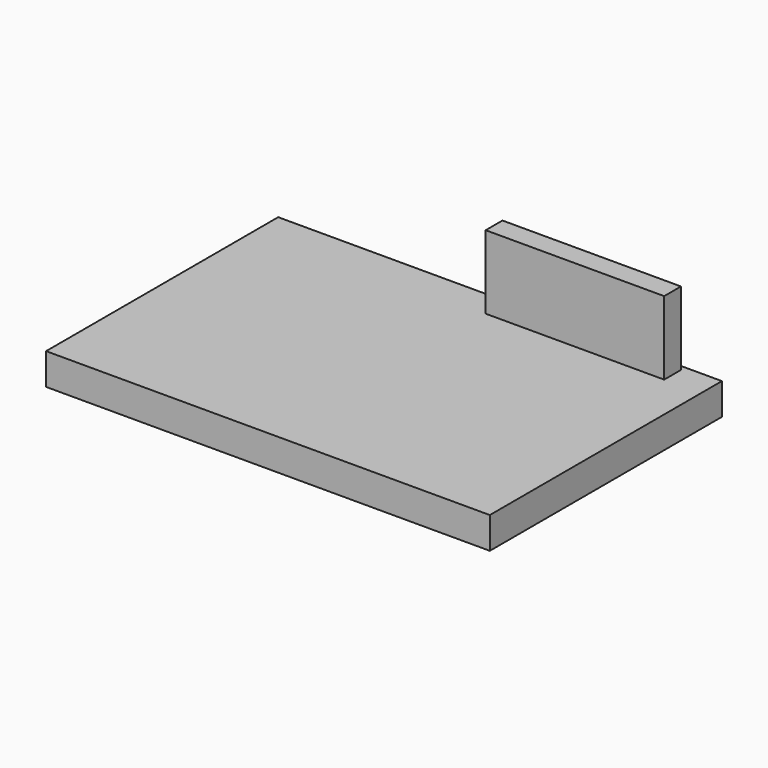
from build123d import *

# Parameters (mm, degrees)
SKETCH_W     = 84.52
SKETCH_H     = 55.26
PAD_DEPTH    = 6
SKETCH001_W  = 34
SKETCH001_H  = 4
PAD001_DEPTH = 14


with BuildPart() as part:
    # Sketch → Pad (new body)
    with BuildSketch(Plane.XY):
        Rectangle(SKETCH_W, SKETCH_H)
    extrude(amount=-PAD_DEPTH)

    # Sketch001 (on Face5 of Pad) → Pad001 (join)
    with BuildSketch(Plane.XY):
        with Locations((18.26, 24.63)):
            Rectangle(SKETCH001_W, SKETCH001_H)
    extrude(amount=PAD001_DEPTH)


solid = part.part
